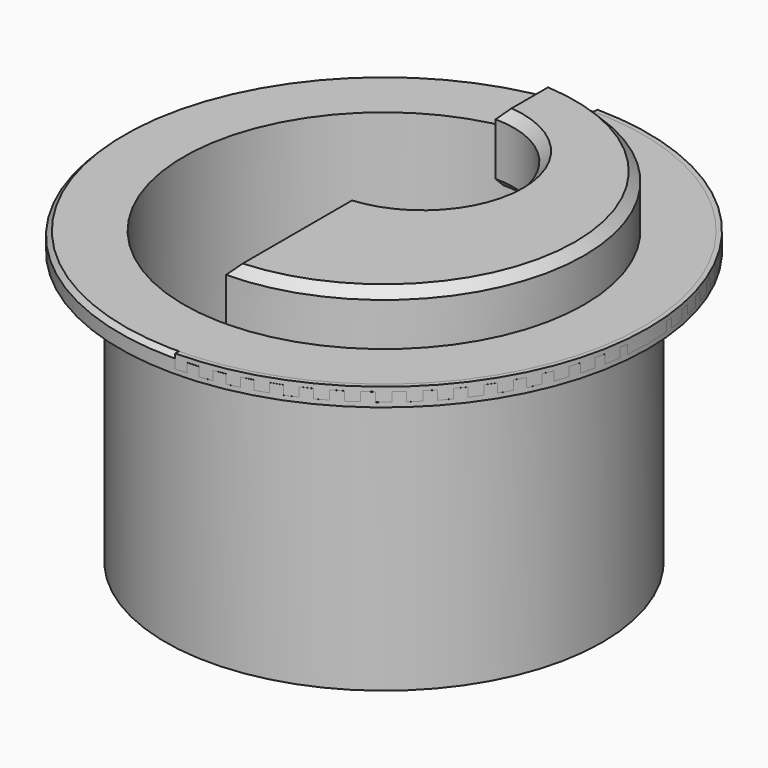
from build123d import *

# Parameters (mm, degrees)
SKETCH003_W     = 0.25
SKETCH003_H     = 59.502016
PAD002_DEPTH    = 10.5
PAD_DEPTH       = 2
PAD001_DEPTH    = 7.75
POCKET_DEPTH    = 7.751
CHAMFER_SIZE    = 0.5
CHAMFER001_SIZE = 1
CHAMFER002_SIZE = 1
SKETCH005_R     = 29
PAD003_DEPTH    = 2
CHAMFER003_SIZE = 0.5
SKETCH004_R     = 24
PAD004_DEPTH    = 30
SKETCH006_R     = 22
POCKET001_DEPTH = 32.001


with BuildPart() as body001:
    # Sketch003 → Pad002 (new body, symmetric)
    with BuildSketch(Plane.XY):
        with Locations((0.122298, 0.033355)):
            Rectangle(SKETCH003_W, SKETCH003_H)
    extrude(amount=PAD002_DEPTH, both=True)


with BuildPart() as router_table_insert_cap:
    # Sketch → Pad (new body)
    with BuildSketch(Plane.XY):
        with BuildLine():
            ThreePointArc((0, -29), (29, 0), (0, 29))
            Line((0, 29), (0, -29))
        make_face()
    extrude(amount=PAD_DEPTH)

    # Sketch001 → Pad001 (join)
    with BuildSketch(Plane.XY):
        with BuildLine():
            ThreePointArc((0, -22), (22, 0), (0, 22))
            Line((0, 22), (0, -22))
        make_face()
    extrude(amount=PAD001_DEPTH)

    # Sketch002 (on DatumPlane) → Pocket (cut, through all)
    with BuildSketch(Plane.XY.offset(7.75)):
        with BuildLine():
            Line((0.073359, 15), (0.073359, -4.996142))
            ThreePointArc((0.073359, -4.996142), (10.269766, 5.001929), (0.073359, 15))
        make_face()
    extrude(amount=-POCKET_DEPTH, mode=Mode.SUBTRACT)

    # Chamfer
    chamfer_edges = [router_table_insert_cap.edges().sort_by_distance(p)[0] for p in [
        (29, 0, 0),
    ]]
    chamfer(chamfer_edges, length=CHAMFER_SIZE)

    # Boolean: cut Body001
    add(body001.part, mode=Mode.SUBTRACT)

    # Chamfer001
    chamfer001_edges = [router_table_insert_cap.edges().sort_by_distance(p)[0] for p in [
        (10.269766, 5.001929, 7.75),
        (0.247298, -13.498328, 7.75),
        (0.247298, 18.500257, 7.75),
        (22, 0, 7.75),
    ]]
    chamfer(chamfer001_edges, length=CHAMFER001_SIZE)

    # Chamfer002
    chamfer002_edges = [router_table_insert_cap.edges().sort_by_distance(p)[0] for p in [
        (10.269766, 5.001929, 0),
    ]]
    chamfer(chamfer002_edges, length=CHAMFER002_SIZE)


with BuildPart() as router_table_insert:
    # Sketch005 → Pad003 (new body)
    with BuildSketch(Plane.XY):
        Circle(SKETCH005_R)
    extrude(amount=PAD003_DEPTH)

    # Chamfer003
    chamfer003_edges = [router_table_insert.edges().sort_by_distance(p)[0] for p in [
        (-29, 0, 2),
    ]]
    chamfer(chamfer003_edges, length=CHAMFER003_SIZE)

    # Sketch004 → Pad004 (join)
    with BuildSketch(Plane(origin=(0, 0, 0), x_dir=(1, 0, 0), z_dir=(0, 0, -1))):
        Circle(SKETCH004_R)
    extrude(amount=PAD004_DEPTH)

    # Sketch006 → Pocket001 (cut, through all)
    with BuildSketch(Plane.XY.offset(-30)):
        Circle(SKETCH006_R)
    extrude(amount=POCKET001_DEPTH, mode=Mode.SUBTRACT)


solid = Compound([router_table_insert_cap.part, router_table_insert.part])
